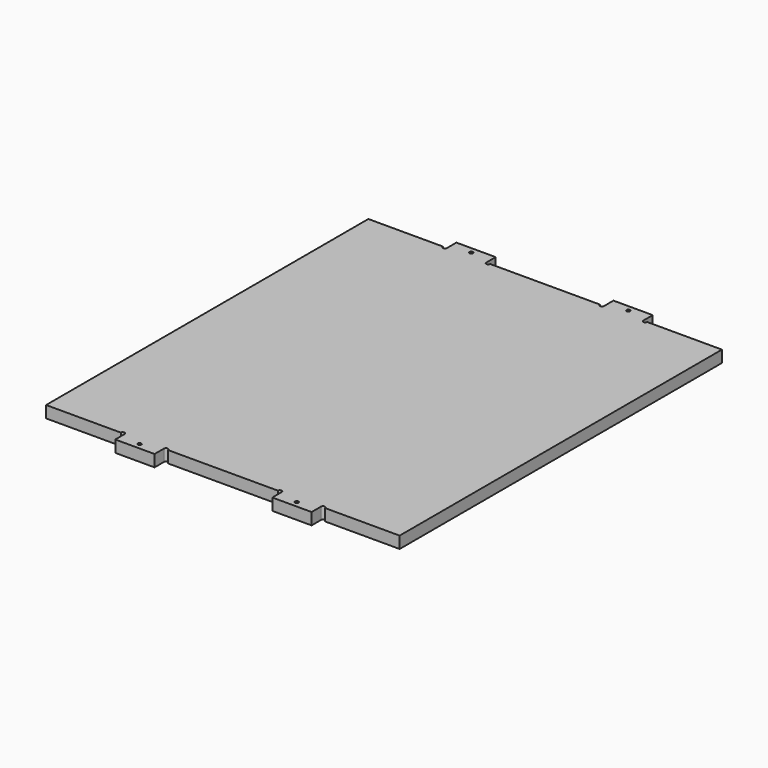
from build123d import *

# Parameters (mm, degrees)
F0_R     = 1.75
F1_DEPTH = 12


with BuildPart() as f1:
    # F0 (on Top) → F1 (new body)
    with BuildSketch(Plane.XY):
        with BuildLine():
            Line((-179.925, 205), (-179.925, 0))
            Line((-179.925, 0), (-179.925, -205))
            Line((-179.925, -205), (-103.925, -205))
            ThreePointArc((-103.925, -205), (-101.925, -203), (-99.925, -205))
            Line((-99.925, -205), (-99.925, -217))
            Line((-99.925, -217), (-59.925, -217))
            Line((-59.925, -217), (-59.925, -205))
            ThreePointArc((-59.925, -205), (-57.925, -203), (-55.925, -205))
            Line((-55.925, -205), (0, -205))
            Line((0, -205), (55.925, -205))
            ThreePointArc((55.925, -205), (57.925, -203), (59.925, -205))
            Line((59.925, -205), (59.925, -217))
            Line((59.925, -217), (99.925, -217))
            Line((99.925, -217), (99.925, -205))
            ThreePointArc((99.925, -205), (101.925, -203), (103.925, -205))
            Line((103.925, -205), (179.925, -205))
            Line((179.925, -205), (179.925, 0))
            Line((179.925, 0), (179.925, 205))
            Line((179.925, 205), (103.925, 205))
            ThreePointArc((103.925, 205), (101.925, 203), (99.925, 205))
            Line((99.925, 205), (99.925, 217))
            Line((99.925, 217), (59.925, 217))
            Line((59.925, 217), (59.925, 205))
            ThreePointArc((59.925, 205), (57.925, 203), (55.925, 205))
            Line((55.925, 205), (0, 205))
            Line((0, 205), (-55.925, 205))
            ThreePointArc((-55.925, 205), (-57.925, 203), (-59.925, 205))
            Line((-59.925, 205), (-59.925, 217))
            Line((-59.925, 217), (-99.925, 217))
            Line((-99.925, 217), (-99.925, 205))
            ThreePointArc((-99.925, 205), (-101.925, 203), (-103.925, 205))
            Line((-103.925, 205), (-179.925, 205))
        make_face()
        with Locations((-79.925, -211)):
            Circle(F0_R, mode=Mode.SUBTRACT)
        with Locations((79.925, -211)):
            Circle(F0_R, mode=Mode.SUBTRACT)
        with Locations((-79.925, 211)):
            Circle(F0_R, mode=Mode.SUBTRACT)
        with Locations((79.925, 211)):
            Circle(F0_R, mode=Mode.SUBTRACT)
    extrude(amount=F1_DEPTH)


solid = f1.part
